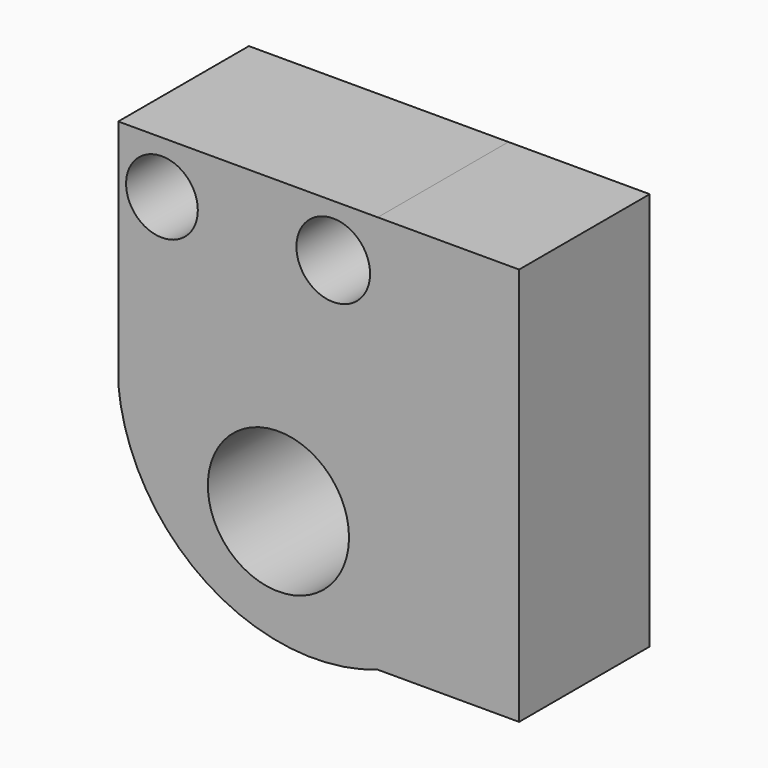
from build123d import *

# Parameters (mm, degrees)
F0_R      = 23.720852
F0_R_2    = 12.05353
F0_R_3    = 12.375649
F1_DEPTH  = 54.864
F1_FACE_W = 54.864
F1_FACE_H = 133.829676
F2_DEPTH  = 47.498


with BuildPart() as f1:
    # F0 (on Front) → F1 (new body)
    with BuildSketch(Plane.XZ):
        with BuildLine():
            Line((44.960931, 73.966078), (-42.244215, 73.966078))
            Line((-42.244215, 73.966078), (-42.244215, -3.741475))
            ThreePointArc((-42.244215, -3.741475), (-12.302895, -53.030022), (44.960931, -59.863597))
            Line((44.960931, -59.863597), (44.960931, 73.966078))
        make_face()
        with Locations((11.575464, -23.887878)):
            Circle(F0_R, mode=Mode.SUBTRACT)
        with Locations((-27.566118, 56.409929)):
            Circle(F0_R_2, mode=Mode.SUBTRACT)
        with Locations((29.995034, 56.409929)):
            Circle(F0_R_3, mode=Mode.SUBTRACT)
    extrude(amount=F1_DEPTH)

    # F1_face (on face) → F2 (join)
    with BuildSketch(Plane(origin=(44.960931, -27.432, 7.051241), x_dir=(0, 1, 0), z_dir=(1, 0, 0))):
        Rectangle(F1_FACE_W, F1_FACE_H)
    extrude(amount=F2_DEPTH)


solid = f1.part
